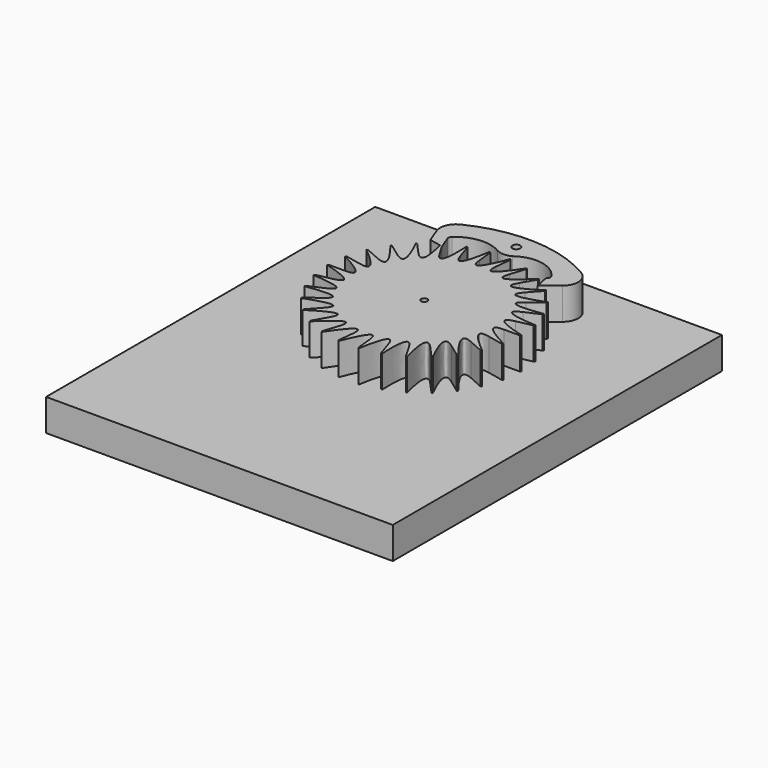
from build123d import *

# Parameters (mm, degrees)
F0_R     = 2.5
F1_DEPTH = 25.4
F2_R     = 3.175
F3_DEPTH = 25.4
F4_W     = 276.5388935804
F4_H     = 328.2092958689
F4_R     = 2.5
F4_R_2   = 3.175
F5_DEPTH = 25.4


with BuildPart() as f1:
    # F0 (on Top) → F1 (new body)
    with BuildSketch(Plane.XY):
        with BuildLine():
            Line((-31.75, 54.9926131403), (-38.1, 65.9911357684))
            Line((-38.1, 65.9911357684), (-39.1676334379, 66.2772072859))
            add(Edge.make_bspline(
                [(-42.4897935038, 47.1896964178), (-30.6864392649, 34.0807434831), (-39.1676334379, 66.2772072859)],
                knots=[6.0995335072, 6.0995335072, 6.0995335072, 6.6496750639, 6.6496750639, 6.6496750639], degree=2, weights=[1, 0.9624059756, 1]))
            Line((-42.4897935038, 47.1896964178), (-50.9877522045, 56.6276357014))
            Line((-50.9877522045, 56.6276357014), (-52.0915329032, 56.6854823966))
            add(Edge.make_bspline(
                [(-51.3725791428, 37.3243635206), (-37.1016519439, 26.9559279965), (-52.0915329032, 56.6854823966)],
                knots=[6.0995335072, 6.0995335072, 6.0995335072, 6.6496750639, 6.6496750639, 6.6496750639], degree=2, weights=[1, 0.9624059756, 1]))
            Line((-51.3725791428, 37.3243635206), (-61.6470949714, 44.7892362247))
            Line((-61.6470949714, 44.7892362247), (-62.7387824177, 44.6163299195))
            add(Edge.make_bspline(
                [(-58.0101365603, 25.8277768353), (-41.8953443995, 18.6530091075), (-62.7387824177, 44.6163299195)],
                knots=[6.0995335072, 6.0995335072, 6.0995335072, 6.6496750639, 6.6496750639, 6.6496750639], degree=2, weights=[1, 0.9624059756, 1]))
            Line((-58.0101365603, 25.8277768353), (-69.6121638724, 30.9933322024))
            Line((-69.6121638724, 30.9933322024), (-70.6440460865, 30.597229732))
            add(Edge.make_bspline(
                [(-62.1123726466, 13.2023923669), (-44.8580092687, 9.5348642135), (-70.6440460865, 30.597229732)],
                knots=[6.0995335072, 6.0995335072, 6.0995335072, 6.6496750639, 6.6496750639, 6.6496750639], degree=2, weights=[1, 0.9624059756, 1]))
            Line((-62.1123726466, 13.2023923669), (-74.5348471759, 15.8428708403))
            Line((-74.5348471759, 15.8428708403), (-75.4618259535, 15.2408837834))
            add(Edge.make_bspline(
                [(-63.5, 0), (-45.8601638802, 0), (-75.4618259535, 15.2408837834)],
                knots=[6.0995335072, 6.0995335072, 6.0995335072, 6.6496750639, 6.6496750639, 6.6496750639], degree=2, weights=[1, 0.9624059756, 1]))
            Line((-63.5, 0), (-76.2, 0))
            Line((-76.2, 0), (-76.9815619204, -0.7815619204))
            add(Edge.make_bspline(
                [(-62.1123726466, -13.2023923669), (-44.8580092687, -9.5348642135), (-76.9815619204, -0.7815619204)],
                knots=[6.0995335072, 6.0995335072, 6.0995335072, 6.6496750639, 6.6496750639, 6.6496750639], degree=2, weights=[1, 0.9624059756, 1]))
            Line((-62.1123726466, -13.2023923669), (-74.5348471759, -15.8428708403))
            Line((-74.5348471759, -15.8428708403), (-75.1368342328, -16.7698496179))
            add(Edge.make_bspline(
                [(-58.0101365603, -25.8277768353), (-41.8953443995, -18.6530091075), (-75.1368342328, -16.7698496179)],
                knots=[6.0995335072, 6.0995335072, 6.0995335072, 6.6496750639, 6.6496750639, 6.6496750639], degree=2, weights=[1, 0.9624059756, 1]))
            Line((-58.0101365603, -25.8277768353), (-69.6121638724, -30.9933322024))
            Line((-69.6121638724, -30.9933322024), (-70.0082663428, -32.0252144165))
            add(Edge.make_bspline(
                [(-51.3725791428, -37.3243635206), (-37.1016519439, -26.9559279965), (-70.0082663428, -32.0252144165)],
                knots=[6.0995335072, 6.0995335072, 6.0995335072, 6.6496750639, 6.6496750639, 6.6496750639], degree=2, weights=[1, 0.9624059756, 1]))
            Line((-51.3725791428, -37.3243635206), (-61.6470949714, -44.7892362247))
            Line((-61.6470949714, -44.7892362247), (-61.8200012766, -45.880923671))
            add(Edge.make_bspline(
                [(-42.4897935038, -47.1896964178), (-30.6864392649, -34.0807434831), (-61.8200012766, -45.880923671)],
                knots=[6.0995335072, 6.0995335072, 6.0995335072, 6.6496750639, 6.6496750639, 6.6496750639], degree=2, weights=[1, 0.9624059756, 1]))
            Line((-42.4897935038, -47.1896964178), (-50.9877522045, -56.6276357014))
            Line((-50.9877522045, -56.6276357014), (-50.9299055093, -57.7314164))
            add(Edge.make_bspline(
                [(-31.75, -54.9926131403), (-22.9300819401, -39.716066942), (-50.9299055093, -57.7314164)],
                knots=[6.0995335072, 6.0995335072, 6.0995335072, 6.6496750639, 6.6496750639, 6.6496750639], degree=2, weights=[1, 0.9624059756, 1]))
            Line((-31.75, -54.9926131403), (-38.1, -65.9911357684))
            Line((-38.1, -65.9911357684), (-37.8139284825, -67.0587692063))
            add(Edge.make_bspline(
                [(-19.6225791428, -60.3920887847), (-14.1715700038, -43.6156076966), (-37.8139284825, -67.0587692063)],
                knots=[6.0995335072, 6.0995335072, 6.0995335072, 6.6496750639, 6.6496750639, 6.6496750639], degree=2, weights=[1, 0.9624059756, 1]))
            Line((-19.6225791428, -60.3920887847), (-23.5470949714, -72.4705065417))
            Line((-23.5470949714, -72.4705065417), (-23.0453013296, -73.4553320146))
            add(Edge.make_bspline(
                [(-6.6375574175, -63.1521403559), (-4.7936924556, -45.6089371041), (-23.0453013296, -73.4553320146)],
                knots=[6.0995335072, 6.0995335072, 6.0995335072, 6.6496750639, 6.6496750639, 6.6496750639], degree=2, weights=[1, 0.9624059756, 1]))
            Line((-6.6375574175, -63.1521403559), (-7.965068901, -75.7825684271))
            Line((-7.965068901, -75.7825684271), (-7.269483925, -76.641544336))
            add(Edge.make_bspline(
                [(6.6375574175, -63.1521403559), (4.7936924556, -45.6089371041), (-7.269483925, -76.641544336)],
                knots=[6.0995335072, 6.0995335072, 6.0995335072, 6.6496750639, 6.6496750639, 6.6496750639], degree=2, weights=[1, 0.9624059756, 1]))
            Line((6.6375574175, -63.1521403559), (7.965068901, -75.7825684271))
            Line((7.965068901, -75.7825684271), (8.8240448099, -76.478153403))
            add(Edge.make_bspline(
                [(19.6225791428, -60.3920887847), (14.1715700038, -43.6156076966), (8.8240448099, -76.478153403)],
                knots=[6.0995335072, 6.0995335072, 6.0995335072, 6.6496750639, 6.6496750639, 6.6496750639], degree=2, weights=[1, 0.9624059756, 1]))
            Line((19.6225791428, -60.3920887847), (23.5470949714, -72.4705065417))
            Line((23.5470949714, -72.4705065417), (24.5319204442, -72.9723001834))
            add(Edge.make_bspline(
                [(31.75, -54.9926131403), (22.9300819401, -39.716066942), (24.5319204442, -72.9723001834)],
                knots=[6.0995335072, 6.0995335072, 6.0995335072, 6.6496750639, 6.6496750639, 6.6496750639], degree=2, weights=[1, 0.9624059756, 1]))
            Line((31.75, -54.9926131403), (38.1, -65.9911357684))
            Line((38.1, -65.9911357684), (39.1676334379, -66.2772072859))
            add(Edge.make_bspline(
                [(42.4897935038, -47.1896964178), (30.6864392649, -34.0807434831), (39.1676334379, -66.2772072859)],
                knots=[6.0995335072, 6.0995335072, 6.0995335072, 6.6496750639, 6.6496750639, 6.6496750639], degree=2, weights=[1, 0.9624059756, 1]))
            Line((42.4897935038, -47.1896964178), (50.9877522045, -56.6276357014))
            Line((50.9877522045, -56.6276357014), (52.0915329032, -56.6854823966))
            add(Edge.make_bspline(
                [(51.3725791428, -37.3243635206), (37.1016519439, -26.9559279965), (52.0915329032, -56.6854823966)],
                knots=[6.0995335072, 6.0995335072, 6.0995335072, 6.6496750639, 6.6496750639, 6.6496750639], degree=2, weights=[1, 0.9624059756, 1]))
            Line((51.3725791428, -37.3243635206), (61.6470949714, -44.7892362247))
            Line((61.6470949714, -44.7892362247), (62.7387824177, -44.6163299195))
            add(Edge.make_bspline(
                [(58.0101365603, -25.8277768353), (41.8953443995, -18.6530091075), (62.7387824177, -44.6163299195)],
                knots=[6.0995335072, 6.0995335072, 6.0995335072, 6.6496750639, 6.6496750639, 6.6496750639], degree=2, weights=[1, 0.9624059756, 1]))
            Line((58.0101365603, -25.8277768353), (69.6121638724, -30.9933322024))
            Line((69.6121638724, -30.9933322024), (70.6440460865, -30.597229732))
            add(Edge.make_bspline(
                [(62.1123726466, -13.2023923669), (44.8580092687, -9.5348642135), (70.6440460865, -30.597229732)],
                knots=[6.0995335072, 6.0995335072, 6.0995335072, 6.6496750639, 6.6496750639, 6.6496750639], degree=2, weights=[1, 0.9624059756, 1]))
            Line((62.1123726466, -13.2023923669), (74.5348471759, -15.8428708403))
            Line((74.5348471759, -15.8428708403), (75.4618259535, -15.2408837834))
            add(Edge.make_bspline(
                [(63.5, 0), (45.8601638802, 0), (75.4618259535, -15.2408837834)],
                knots=[6.0995335072, 6.0995335072, 6.0995335072, 6.6496750639, 6.6496750639, 6.6496750639], degree=2, weights=[1, 0.9624059756, 1]))
            Line((63.5, 0), (76.2, 0))
            Line((76.2, 0), (76.9815619204, 0.7815619204))
            add(Edge.make_bspline(
                [(62.1123726466, 13.2023923669), (44.8580092687, 9.5348642135), (76.9815619204, 0.7815619204)],
                knots=[6.0995335072, 6.0995335072, 6.0995335072, 6.6496750639, 6.6496750639, 6.6496750639], degree=2, weights=[1, 0.9624059756, 1]))
            Line((62.1123726466, 13.2023923669), (74.5348471759, 15.8428708403))
            Line((74.5348471759, 15.8428708403), (75.1368342328, 16.7698496179))
            add(Edge.make_bspline(
                [(58.0101365603, 25.8277768353), (41.8953443995, 18.6530091075), (75.1368342328, 16.7698496179)],
                knots=[6.0995335072, 6.0995335072, 6.0995335072, 6.6496750639, 6.6496750639, 6.6496750639], degree=2, weights=[1, 0.9624059756, 1]))
            Line((58.0101365603, 25.8277768353), (69.6121638724, 30.9933322024))
            Line((69.6121638724, 30.9933322024), (70.0082663428, 32.0252144165))
            add(Edge.make_bspline(
                [(51.3725791428, 37.3243635206), (37.1016519439, 26.9559279965), (70.0082663428, 32.0252144165)],
                knots=[6.0995335072, 6.0995335072, 6.0995335072, 6.6496750639, 6.6496750639, 6.6496750639], degree=2, weights=[1, 0.9624059756, 1]))
            Line((51.3725791428, 37.3243635206), (61.6470949714, 44.7892362247))
            Line((61.6470949714, 44.7892362247), (61.8200012766, 45.880923671))
            add(Edge.make_bspline(
                [(42.4897935038, 47.1896964178), (30.6864392649, 34.0807434831), (61.8200012766, 45.880923671)],
                knots=[6.0995335072, 6.0995335072, 6.0995335072, 6.6496750639, 6.6496750639, 6.6496750639], degree=2, weights=[1, 0.9624059756, 1]))
            Line((42.4897935038, 47.1896964178), (50.9877522045, 56.6276357014))
            Line((50.9877522045, 56.6276357014), (50.9299055093, 57.7314164))
            add(Edge.make_bspline(
                [(31.75, 54.9926131403), (22.9300819401, 39.716066942), (50.9299055093, 57.7314164)],
                knots=[6.0995335072, 6.0995335072, 6.0995335072, 6.6496750639, 6.6496750639, 6.6496750639], degree=2, weights=[1, 0.9624059756, 1]))
            Line((31.75, 54.9926131403), (38.1, 65.9911357684))
            Line((38.1, 65.9911357684), (37.8139284825, 67.0587692063))
            add(Edge.make_bspline(
                [(19.6225791428, 60.3920887847), (14.1715700038, 43.6156076966), (37.8139284825, 67.0587692063)],
                knots=[6.0995335072, 6.0995335072, 6.0995335072, 6.6496750639, 6.6496750639, 6.6496750639], degree=2, weights=[1, 0.9624059756, 1]))
            Line((19.6225791428, 60.3920887847), (23.5470949714, 72.4705065417))
            Line((23.5470949714, 72.4705065417), (23.0453013296, 73.4553320146))
            add(Edge.make_bspline(
                [(6.6375574175, 63.1521403559), (4.7936924556, 45.6089371041), (23.0453013296, 73.4553320146)],
                knots=[6.0995335072, 6.0995335072, 6.0995335072, 6.6496750639, 6.6496750639, 6.6496750639], degree=2, weights=[1, 0.9624059756, 1]))
            Line((6.6375574175, 63.1521403559), (7.965068901, 75.7825684271))
            Line((7.965068901, 75.7825684271), (7.269483925, 76.641544336))
            add(Edge.make_bspline(
                [(-6.6375574175, 63.1521403559), (-4.7936924556, 45.6089371041), (7.269483925, 76.641544336)],
                knots=[6.0995335072, 6.0995335072, 6.0995335072, 6.6496750639, 6.6496750639, 6.6496750639], degree=2, weights=[1, 0.9624059756, 1]))
            Line((-6.6375574175, 63.1521403559), (-7.965068901, 75.7825684271))
            Line((-7.965068901, 75.7825684271), (-8.8240448099, 76.478153403))
            add(Edge.make_bspline(
                [(-19.6225791428, 60.3920887847), (-14.1715700038, 43.6156076966), (-8.8240448099, 76.478153403)],
                knots=[6.0995335072, 6.0995335072, 6.0995335072, 6.6496750639, 6.6496750639, 6.6496750639], degree=2, weights=[1, 0.9624059756, 1]))
            Line((-19.6225791428, 60.3920887847), (-23.5470949714, 72.4705065417))
            Line((-23.5470949714, 72.4705065417), (-24.5319204442, 72.9723001834))
            add(Edge.make_bspline(
                [(-31.75, 54.9926131403), (-22.9300819401, 39.716066942), (-24.5319204442, 72.9723001834)],
                knots=[6.0995335072, 6.0995335072, 6.0995335072, 6.6496750639, 6.6496750639, 6.6496750639], degree=2, weights=[1, 0.9624059756, 1]))
        make_face()
        Circle(F0_R, mode=Mode.SUBTRACT)
    extrude(amount=F1_DEPTH)


with BuildPart() as f3:
    # F2 (on Top) → F3 (new body)
    with BuildSketch(Plane.XY):
        with BuildLine():
            Line((-52.4173324444, 77.7960829123), (-47.8191543976, 65.817419565))
            Line((-47.8191543976, 65.817419565), (-36.6260975812, 63.4382618936))
            Line((-36.6260975812, 63.4382618936), (-40.6130014279, 73.8245015066))
            ThreePointArc((-40.6130014279, 73.8245015066), (-40.73594482, 75.7043964691), (-39.7720159928, 77.3230259398))
            ThreePointArc((-39.7720159928, 77.3230259398), (-23.4179700783, 84.5186340139), (-5.9871606681, 80.5945447395))
            ThreePointArc((-5.9871606681, 80.5945447395), (0, 79.0947191637), (5.9871606681, 80.5945447395))
            ThreePointArc((5.9871606681, 80.5945447395), (24.9068947667, 85.1590785832), (41.5108787532, 75.0053096599))
            ThreePointArc((41.5108787532, 75.0053096599), (42.0918162926, 72.7238423021), (40.9418986389, 70.6695124553))
            Line((40.9418986389, 70.6695124553), (40.677402343, 70.455327578))
            Line((40.677402343, 70.455327578), (43.0565600145, 59.2622707616))
            Line((43.0565600145, 59.2622707616), (55.0295038104, 68.9577694779))
            ThreePointArc((55.0295038104, 68.9577694779), (59.7048300357, 79.7327847707), (53.5448252424, 89.7334832873))
            ThreePointArc((53.5448252424, 89.7334832873), (4.1953855376, 104.410464386), (-46.1725447908, 93.7402925142))
            ThreePointArc((-46.1725447908, 93.7402925142), (-52.3861968075, 86.9789251195), (-52.4173324444, 77.7960829123))
        make_face()
        with Locations((0, 91.7947191637)):
            Circle(F2_R, mode=Mode.SUBTRACT)
    extrude(amount=F3_DEPTH)


with BuildPart() as f5:
    # F4 (on Top) → F5 (new body)
    with BuildSketch(Plane.XY):
        with Locations((5.3789392114, -46.9099287707)):
            Rectangle(F4_W, F4_H)
        Circle(F4_R, mode=Mode.SUBTRACT)
        with Locations((0, 91.7947191637)):
            Circle(F4_R_2, mode=Mode.SUBTRACT)
    extrude(amount=-F5_DEPTH)


solid = Compound([f1.part, f3.part, f5.part])
